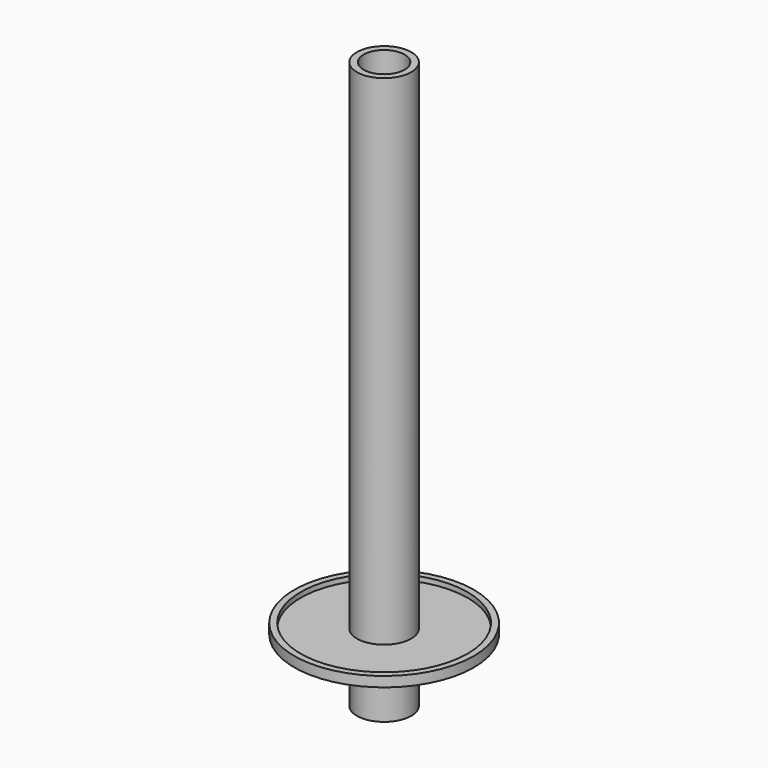
from build123d import *

# Parameters (mm, degrees)
F0_R          = 35.632987
F0_R_2        = 33.147114
F1_DEPTH      = 4
F0_R_3        = 10.785597
F0_R_4        = 8.143349
F2_DEPTH      = 200
F2_DEPTH_BACK = 25
F3_DEPTH      = 2


with BuildPart() as f1:
    # F0 (on Top) → F1 (new body)
    with BuildSketch(Plane.XY):
        Circle(F0_R)
        Circle(F0_R_2, mode=Mode.SUBTRACT)
    extrude(amount=F1_DEPTH)


with BuildPart() as f2:
    # F0 (on Top) → F2 (new body, two sides)
    with BuildSketch(Plane.XY) as f2_sk:
        Circle(F0_R_3)
        Circle(F0_R_4, mode=Mode.SUBTRACT)
    extrude(amount=F2_DEPTH)
    extrude(f2_sk.sketch, amount=-F2_DEPTH_BACK)


with BuildPart() as f3:
    # F0 (on Top) → F3 (new body)
    with BuildSketch(Plane.XY):
        Circle(F0_R_2)
        Circle(F0_R_3, mode=Mode.SUBTRACT)
    extrude(amount=F3_DEPTH)


solid = Compound([f1.part, f2.part, f3.part])
